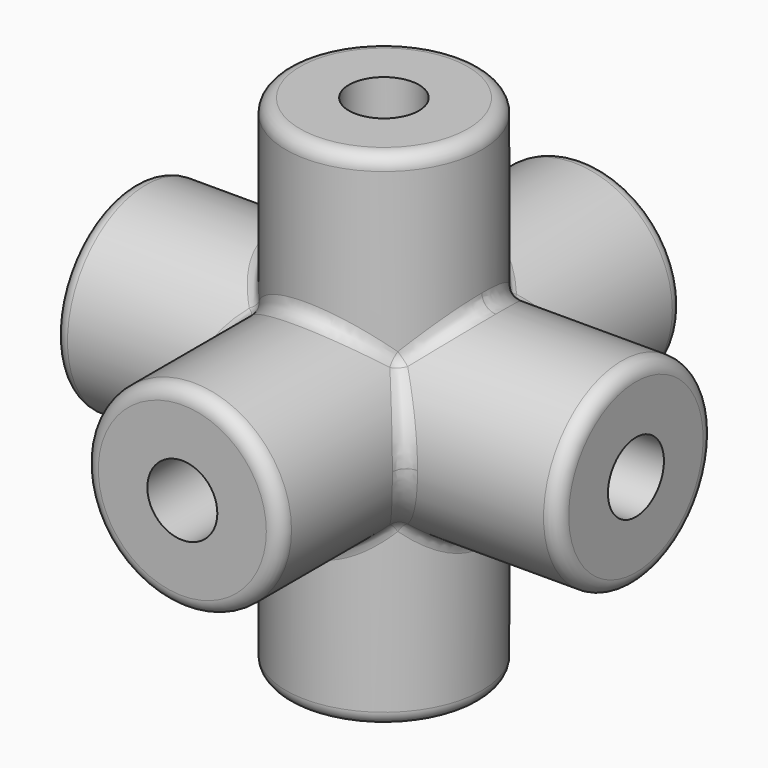
from build123d import *

# Parameters (mm, degrees)
F0_R      = 3.5
F1_DEPTH  = 9
F2_R      = 3.5
F3_DEPTH  = 9
F4_R      = 3.5
F5_DEPTH  = 9
F6_R      = 1.25
F7_DEPTH  = 18.001
F8_R      = 1.25
F9_DEPTH  = 18.001
F10_R     = 1.25
F11_DEPTH = 18.001
F12_R     = 0.5


with BuildPart() as f1:
    # F0 (on Front) → F1 (new body, symmetric)
    with BuildSketch(Plane.XZ):
        Circle(F0_R)
    extrude(amount=F1_DEPTH, both=True)

    # F2 (on Right) → F3 (join, symmetric)
    with BuildSketch(Plane.YZ):
        Circle(F2_R)
    extrude(amount=F3_DEPTH, both=True)

    # F4 (on Top) → F5 (join, symmetric)
    with BuildSketch(Plane.XY):
        Circle(F4_R)
    extrude(amount=F5_DEPTH, both=True)

    # F6 (on face) → F7 (cut, through all)
    with BuildSketch(Plane.XY.offset(9)):
        Circle(F6_R)
    extrude(amount=-F7_DEPTH, mode=Mode.SUBTRACT)

    # F8 (on face) → F9 (cut, through all)
    with BuildSketch(Plane.YZ.offset(9)):
        Circle(F8_R)
    extrude(amount=-F9_DEPTH, mode=Mode.SUBTRACT)

    # F10 (on face) → F11 (cut, through all)
    with BuildSketch(Plane.XZ.offset(9)):
        Circle(F10_R)
    extrude(amount=-F11_DEPTH, mode=Mode.SUBTRACT)

    # F12
    f12_edges = [f1.edges().sort_by_distance(p)[0] for p in [
        (-3.5, -9, 0),
        (-9, -3.5, 0),
        (-3.5, 0, -9),
        (-3.5, 9, 0),
        (-3.5, 0, 9),
        (9, -3.5, 0),
        (1.410455, -3.20322, -3.20322),
        (-1.410455, -3.20322, -3.20322),
        (-1.410455, -3.20322, 3.20322),
        (1.410455, -3.20322, 3.20322),
        (3.20322, 1.410455, -3.20322),
        (3.20322, -1.410455, -3.20322),
        (3.20322, -1.410455, 3.20322),
        (3.20322, 1.410455, 3.20322),
        (3.20322, 3.20322, 1.410455),
        (-3.20322, 3.20322, 1.410455),
        (-3.20322, 3.20322, -1.410455),
        (3.20322, 3.20322, -1.410455),
        (3.20322, -3.20322, -1.410455),
        (-3.20322, -3.20322, -1.410455),
        (-3.20322, -3.20322, 1.410455),
        (3.20322, -3.20322, 1.410455),
        (0, 3.5, 3.5),
        (0, 3.5, -3.5),
        (-3.5, 0, 3.5),
        (-3.5, 0, -3.5),
    ]]
    fillet(f12_edges, radius=F12_R)


solid = f1.part
